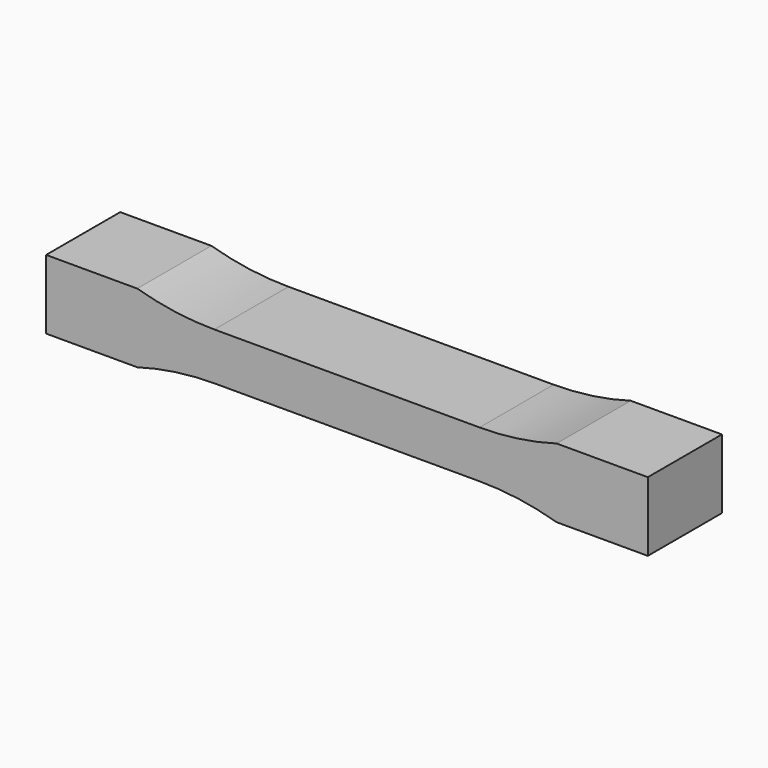
from build123d import *

# Parameters (mm, degrees)
F1_DEPTH = 25.4


with BuildPart() as f1:
    # F0 (on Front) → F1 (new body)
    with BuildSketch(Plane.XZ):
        with BuildLine():
            Line((36.357625, 6.5), (0, 6.5))
            Line((0, 6.5), (-36.357625, 6.5))
            ThreePointArc((-36.357625, 6.5), (-47.034704, 7.253738), (-57.5, 9.5))
            Line((-57.5, 9.5), (-82.5, 9.5))
            Line((-82.5, 9.5), (-82.5, -9.5))
            Line((-82.5, -9.5), (-57.5, -9.5))
            ThreePointArc((-57.5, -9.5), (-47.034704, -7.253738), (-36.357625, -6.5))
            Line((-36.357625, -6.5), (0, -6.5))
            Line((0, -6.5), (36.357625, -6.5))
            ThreePointArc((36.357625, -6.5), (47.034704, -7.253738), (57.5, -9.5))
            Line((57.5, -9.5), (82.5, -9.5))
            Line((82.5, -9.5), (82.5, 9.5))
            Line((82.5, 9.5), (57.5, 9.5))
            ThreePointArc((57.5, 9.5), (47.034704, 7.253738), (36.357625, 6.5))
        make_face()
    extrude(amount=F1_DEPTH)


solid = f1.part
